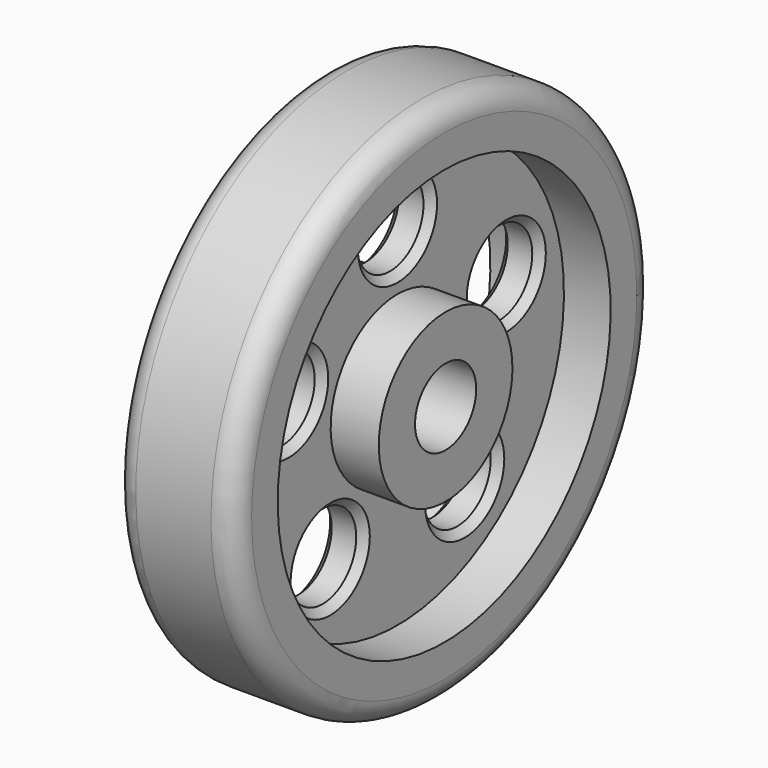
from build123d import *

# Parameters (mm, degrees)
F2_R     = 5.5659119411
F3_DEPTH = 25
F4_R     = 3
F5_SIZE  = 1


with BuildPart() as f1:
    # F0 (on Front) → F1 (revolve)
    with BuildSketch(Plane.XZ):
        Polygon((0, 11.0889025964), (0, 5.0745825283), (16.1634832621, 5.0745825283), (16.1634832621, 11.0889025964), (9.7732706927, 11.0889025964), (9.7732706927, 27.6282825507), (15.9755358472, 27.6282825507), (15.9755358472, 34.9582345225), (0, 34.9582345225), (0, 27.6282825507), (4.5107388869, 27.6282825507), (4.5107388869, 11.0889025964), align=None)
    revolve(axis=Axis((18.8887231052, 0, 0), (1, 0, 0)))

    # F2 (on face) → F3 (cut)
    with BuildSketch(Plane.YZ.offset(9.7732706927)):
        with Locations((0, 18.9826972783)):
            Circle(F2_R)
        with Locations((18.0536179433, 5.8659760581)):
            Circle(F2_R)
        with Locations((11.1577495089, -15.3573246972)):
            Circle(F2_R)
        with Locations((-18.0536179433, 5.8659760581)):
            Circle(F2_R)
        with Locations((-11.1577495089, -15.3573246972)):
            Circle(F2_R)
    extrude(amount=-F3_DEPTH, mode=Mode.SUBTRACT)

    # F4
    f4_edges = [f1.edges().sort_by_distance(p)[0] for p in [
        (15.975536, 0, -34.958235),
        (0, 0, -34.958235),
    ]]
    fillet(f4_edges, radius=F4_R)

    # F5
    f5_edges = [f1.edges().sort_by_distance(p)[0] for p in [
        (9.773271, 12.487706, 5.865976),
        (9.773271, -5.565912, 18.982697),
        (7.142005, 5.565912, 18.982697),
        (4.510739, -5.565912, 18.982697),
        (9.773271, -23.61953, 5.865976),
        (7.142005, -12.487706, 5.865976),
        (4.510739, -23.61953, 5.865976),
        (9.773271, -16.723661, -15.357325),
        (7.142005, -5.591838, -15.357325),
        (4.510739, -16.723661, -15.357325),
        (9.773271, 5.591838, -15.357325),
        (7.142005, 16.723661, -15.357325),
        (4.510739, 5.591838, -15.357325),
        (7.142005, 23.61953, 5.865976),
        (4.510739, 12.487706, 5.865976),
    ]]
    chamfer(f5_edges, length=F5_SIZE)


solid = f1.part
